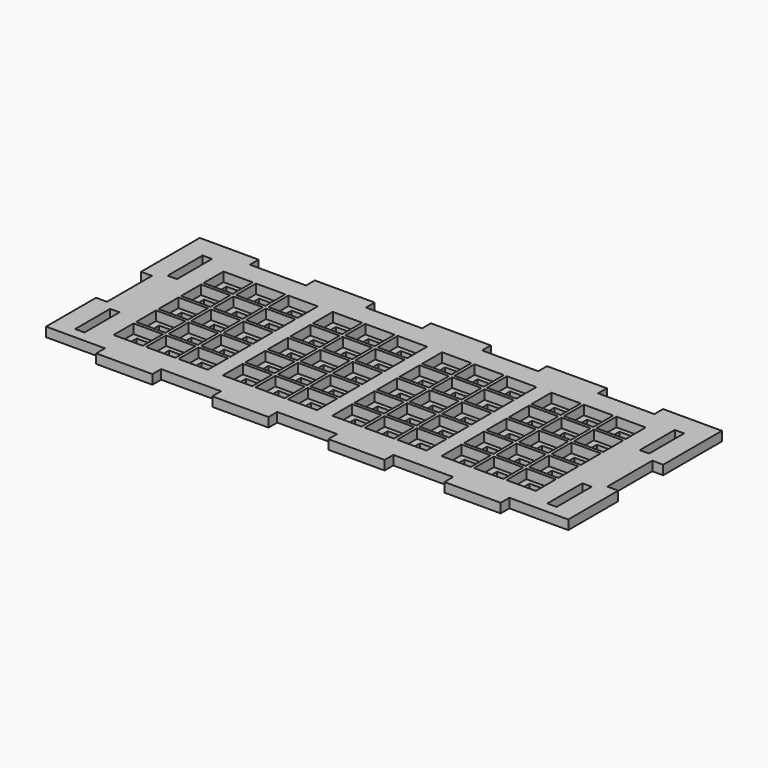
from build123d import *

# Parameters (mm, degrees)
F0_W     = 139.2
F0_H     = 49
F0_W_2   = 5.2
F0_H_2   = 5.2
F1_DEPTH = 3
F2_W     = 167.2
F2_H     = 65
F2_W_2   = 9.4
F2_H_2   = 8
F3_DEPTH = 3
F4_W     = 3
F4_H     = 14
F4_W_2   = 3.5
F4_H_2   = 18
F4_W_3   = 18
F4_H_3   = 3.5
F4_W_4   = 18.846658
F4_W_5   = 19.168895
F4_W_6   = 19.168894
F5_DEPTH = 25


with BuildPart() as f1:
    # F0 (on Top) → F1 (new body)
    with BuildSketch(Plane.XY):
        with Locations((69.6, 24.5)):
            Rectangle(F0_W, F0_H)
        with Locations((6.7, 6.5)):
            Rectangle(F0_W_2, F0_H_2, mode=Mode.SUBTRACT)
        with Locations((17.1, 6.5)):
            Rectangle(F0_W_2, F0_H_2, mode=Mode.SUBTRACT)
        with Locations((27.5, 6.5)):
            Rectangle(F0_W_2, F0_H_2, mode=Mode.SUBTRACT)
        with Locations((41.7, 6.5)):
            Rectangle(F0_W_2, F0_H_2, mode=Mode.SUBTRACT)
        with Locations((52.1, 6.5)):
            Rectangle(F0_W_2, F0_H_2, mode=Mode.SUBTRACT)
        with Locations((62.5, 6.5)):
            Rectangle(F0_W_2, F0_H_2, mode=Mode.SUBTRACT)
        with Locations((6.7, 15.5)):
            Rectangle(F0_W_2, F0_H_2, mode=Mode.SUBTRACT)
        with Locations((17.1, 15.5)):
            Rectangle(F0_W_2, F0_H_2, mode=Mode.SUBTRACT)
        with Locations((27.5, 15.5)):
            Rectangle(F0_W_2, F0_H_2, mode=Mode.SUBTRACT)
        with Locations((6.7, 24.5)):
            Rectangle(F0_W_2, F0_H_2, mode=Mode.SUBTRACT)
        with Locations((17.1, 24.5)):
            Rectangle(F0_W_2, F0_H_2, mode=Mode.SUBTRACT)
        with Locations((27.5, 24.5)):
            Rectangle(F0_W_2, F0_H_2, mode=Mode.SUBTRACT)
        with Locations((41.7, 15.5)):
            Rectangle(F0_W_2, F0_H_2, mode=Mode.SUBTRACT)
        with Locations((52.1, 15.5)):
            Rectangle(F0_W_2, F0_H_2, mode=Mode.SUBTRACT)
        with Locations((62.5, 15.5)):
            Rectangle(F0_W_2, F0_H_2, mode=Mode.SUBTRACT)
        with Locations((41.7, 24.5)):
            Rectangle(F0_W_2, F0_H_2, mode=Mode.SUBTRACT)
        with Locations((52.1, 24.5)):
            Rectangle(F0_W_2, F0_H_2, mode=Mode.SUBTRACT)
        with Locations((62.5, 24.5)):
            Rectangle(F0_W_2, F0_H_2, mode=Mode.SUBTRACT)
        with Locations((76.7, 6.5)):
            Rectangle(F0_W_2, F0_H_2, mode=Mode.SUBTRACT)
        with Locations((87.1, 6.5)):
            Rectangle(F0_W_2, F0_H_2, mode=Mode.SUBTRACT)
        with Locations((97.5, 6.5)):
            Rectangle(F0_W_2, F0_H_2, mode=Mode.SUBTRACT)
        with Locations((111.7, 6.5)):
            Rectangle(F0_W_2, F0_H_2, mode=Mode.SUBTRACT)
        with Locations((122.1, 6.5)):
            Rectangle(F0_W_2, F0_H_2, mode=Mode.SUBTRACT)
        with Locations((132.5, 6.5)):
            Rectangle(F0_W_2, F0_H_2, mode=Mode.SUBTRACT)
        with Locations((76.7, 15.5)):
            Rectangle(F0_W_2, F0_H_2, mode=Mode.SUBTRACT)
        with Locations((87.1, 15.5)):
            Rectangle(F0_W_2, F0_H_2, mode=Mode.SUBTRACT)
        with Locations((97.5, 15.5)):
            Rectangle(F0_W_2, F0_H_2, mode=Mode.SUBTRACT)
        with Locations((76.7, 24.5)):
            Rectangle(F0_W_2, F0_H_2, mode=Mode.SUBTRACT)
        with Locations((87.1, 24.5)):
            Rectangle(F0_W_2, F0_H_2, mode=Mode.SUBTRACT)
        with Locations((97.5, 24.5)):
            Rectangle(F0_W_2, F0_H_2, mode=Mode.SUBTRACT)
        with Locations((111.7, 15.5)):
            Rectangle(F0_W_2, F0_H_2, mode=Mode.SUBTRACT)
        with Locations((122.1, 15.5)):
            Rectangle(F0_W_2, F0_H_2, mode=Mode.SUBTRACT)
        with Locations((132.5, 15.5)):
            Rectangle(F0_W_2, F0_H_2, mode=Mode.SUBTRACT)
        with Locations((111.7, 24.5)):
            Rectangle(F0_W_2, F0_H_2, mode=Mode.SUBTRACT)
        with Locations((122.1, 24.5)):
            Rectangle(F0_W_2, F0_H_2, mode=Mode.SUBTRACT)
        with Locations((132.5, 24.5)):
            Rectangle(F0_W_2, F0_H_2, mode=Mode.SUBTRACT)
        with Locations((6.7, 33.5)):
            Rectangle(F0_W_2, F0_H_2, mode=Mode.SUBTRACT)
        with Locations((17.1, 33.5)):
            Rectangle(F0_W_2, F0_H_2, mode=Mode.SUBTRACT)
        with Locations((27.5, 33.5)):
            Rectangle(F0_W_2, F0_H_2, mode=Mode.SUBTRACT)
        with Locations((41.7, 33.5)):
            Rectangle(F0_W_2, F0_H_2, mode=Mode.SUBTRACT)
        with Locations((52.1, 33.5)):
            Rectangle(F0_W_2, F0_H_2, mode=Mode.SUBTRACT)
        with Locations((62.5, 33.5)):
            Rectangle(F0_W_2, F0_H_2, mode=Mode.SUBTRACT)
        with Locations((6.7, 42.5)):
            Rectangle(F0_W_2, F0_H_2, mode=Mode.SUBTRACT)
        with Locations((17.1, 42.5)):
            Rectangle(F0_W_2, F0_H_2, mode=Mode.SUBTRACT)
        with Locations((27.5, 42.5)):
            Rectangle(F0_W_2, F0_H_2, mode=Mode.SUBTRACT)
        with Locations((41.7, 42.5)):
            Rectangle(F0_W_2, F0_H_2, mode=Mode.SUBTRACT)
        with Locations((52.1, 42.5)):
            Rectangle(F0_W_2, F0_H_2, mode=Mode.SUBTRACT)
        with Locations((62.5, 42.5)):
            Rectangle(F0_W_2, F0_H_2, mode=Mode.SUBTRACT)
        with Locations((76.7, 33.5)):
            Rectangle(F0_W_2, F0_H_2, mode=Mode.SUBTRACT)
        with Locations((87.1, 33.5)):
            Rectangle(F0_W_2, F0_H_2, mode=Mode.SUBTRACT)
        with Locations((97.5, 33.5)):
            Rectangle(F0_W_2, F0_H_2, mode=Mode.SUBTRACT)
        with Locations((111.7, 33.5)):
            Rectangle(F0_W_2, F0_H_2, mode=Mode.SUBTRACT)
        with Locations((122.1, 33.5)):
            Rectangle(F0_W_2, F0_H_2, mode=Mode.SUBTRACT)
        with Locations((132.5, 33.5)):
            Rectangle(F0_W_2, F0_H_2, mode=Mode.SUBTRACT)
        with Locations((76.7, 42.5)):
            Rectangle(F0_W_2, F0_H_2, mode=Mode.SUBTRACT)
        with Locations((87.1, 42.5)):
            Rectangle(F0_W_2, F0_H_2, mode=Mode.SUBTRACT)
        with Locations((97.5, 42.5)):
            Rectangle(F0_W_2, F0_H_2, mode=Mode.SUBTRACT)
        with Locations((111.7, 42.5)):
            Rectangle(F0_W_2, F0_H_2, mode=Mode.SUBTRACT)
        with Locations((122.1, 42.5)):
            Rectangle(F0_W_2, F0_H_2, mode=Mode.SUBTRACT)
        with Locations((132.5, 42.5)):
            Rectangle(F0_W_2, F0_H_2, mode=Mode.SUBTRACT)
    extrude(amount=F1_DEPTH)


with BuildPart() as f3:
    # F2 (on face) → F3 (new body)
    with BuildSketch(Plane.XY.offset(3)):
        with Locations((69.6, 24.5)):
            Rectangle(F2_W, F2_H)
        with Locations((6.7, 6.5)):
            Rectangle(F2_W_2, F2_H_2, mode=Mode.SUBTRACT)
        with Locations((17.1, 6.5)):
            Rectangle(F2_W_2, F2_H_2, mode=Mode.SUBTRACT)
        with Locations((27.5, 6.5)):
            Rectangle(F2_W_2, F2_H_2, mode=Mode.SUBTRACT)
        with Locations((41.7, 6.5)):
            Rectangle(F2_W_2, F2_H_2, mode=Mode.SUBTRACT)
        with Locations((52.1, 6.5)):
            Rectangle(F2_W_2, F2_H_2, mode=Mode.SUBTRACT)
        with Locations((62.5, 6.5)):
            Rectangle(F2_W_2, F2_H_2, mode=Mode.SUBTRACT)
        with Locations((6.7, 15.5)):
            Rectangle(F2_W_2, F2_H_2, mode=Mode.SUBTRACT)
        with Locations((17.1, 15.5)):
            Rectangle(F2_W_2, F2_H_2, mode=Mode.SUBTRACT)
        with Locations((27.5, 15.5)):
            Rectangle(F2_W_2, F2_H_2, mode=Mode.SUBTRACT)
        with Locations((41.7, 15.5)):
            Rectangle(F2_W_2, F2_H_2, mode=Mode.SUBTRACT)
        with Locations((52.1, 15.5)):
            Rectangle(F2_W_2, F2_H_2, mode=Mode.SUBTRACT)
        with Locations((62.5, 15.5)):
            Rectangle(F2_W_2, F2_H_2, mode=Mode.SUBTRACT)
        with Locations((76.7, 6.5)):
            Rectangle(F2_W_2, F2_H_2, mode=Mode.SUBTRACT)
        with Locations((87.1, 6.5)):
            Rectangle(F2_W_2, F2_H_2, mode=Mode.SUBTRACT)
        with Locations((97.5, 6.5)):
            Rectangle(F2_W_2, F2_H_2, mode=Mode.SUBTRACT)
        with Locations((111.7, 6.5)):
            Rectangle(F2_W_2, F2_H_2, mode=Mode.SUBTRACT)
        with Locations((122.1, 6.5)):
            Rectangle(F2_W_2, F2_H_2, mode=Mode.SUBTRACT)
        with Locations((132.5, 6.5)):
            Rectangle(F2_W_2, F2_H_2, mode=Mode.SUBTRACT)
        with Locations((76.7, 15.5)):
            Rectangle(F2_W_2, F2_H_2, mode=Mode.SUBTRACT)
        with Locations((87.1, 15.5)):
            Rectangle(F2_W_2, F2_H_2, mode=Mode.SUBTRACT)
        with Locations((97.5, 15.5)):
            Rectangle(F2_W_2, F2_H_2, mode=Mode.SUBTRACT)
        with Locations((111.7, 15.5)):
            Rectangle(F2_W_2, F2_H_2, mode=Mode.SUBTRACT)
        with Locations((122.1, 15.5)):
            Rectangle(F2_W_2, F2_H_2, mode=Mode.SUBTRACT)
        with Locations((132.5, 15.5)):
            Rectangle(F2_W_2, F2_H_2, mode=Mode.SUBTRACT)
        with Locations((6.7, 24.5)):
            Rectangle(F2_W_2, F2_H_2, mode=Mode.SUBTRACT)
        with Locations((17.1, 24.5)):
            Rectangle(F2_W_2, F2_H_2, mode=Mode.SUBTRACT)
        with Locations((27.5, 24.5)):
            Rectangle(F2_W_2, F2_H_2, mode=Mode.SUBTRACT)
        with Locations((6.7, 33.5)):
            Rectangle(F2_W_2, F2_H_2, mode=Mode.SUBTRACT)
        with Locations((17.1, 33.5)):
            Rectangle(F2_W_2, F2_H_2, mode=Mode.SUBTRACT)
        with Locations((27.5, 33.5)):
            Rectangle(F2_W_2, F2_H_2, mode=Mode.SUBTRACT)
        with Locations((41.7, 24.5)):
            Rectangle(F2_W_2, F2_H_2, mode=Mode.SUBTRACT)
        with Locations((52.1, 24.5)):
            Rectangle(F2_W_2, F2_H_2, mode=Mode.SUBTRACT)
        with Locations((62.5, 24.5)):
            Rectangle(F2_W_2, F2_H_2, mode=Mode.SUBTRACT)
        with Locations((41.7, 33.5)):
            Rectangle(F2_W_2, F2_H_2, mode=Mode.SUBTRACT)
        with Locations((52.1, 33.5)):
            Rectangle(F2_W_2, F2_H_2, mode=Mode.SUBTRACT)
        with Locations((62.5, 33.5)):
            Rectangle(F2_W_2, F2_H_2, mode=Mode.SUBTRACT)
        with Locations((6.7, 42.5)):
            Rectangle(F2_W_2, F2_H_2, mode=Mode.SUBTRACT)
        with Locations((17.1, 42.5)):
            Rectangle(F2_W_2, F2_H_2, mode=Mode.SUBTRACT)
        with Locations((27.5, 42.5)):
            Rectangle(F2_W_2, F2_H_2, mode=Mode.SUBTRACT)
        with Locations((41.7, 42.5)):
            Rectangle(F2_W_2, F2_H_2, mode=Mode.SUBTRACT)
        with Locations((52.1, 42.5)):
            Rectangle(F2_W_2, F2_H_2, mode=Mode.SUBTRACT)
        with Locations((62.5, 42.5)):
            Rectangle(F2_W_2, F2_H_2, mode=Mode.SUBTRACT)
        with Locations((76.7, 24.5)):
            Rectangle(F2_W_2, F2_H_2, mode=Mode.SUBTRACT)
        with Locations((87.1, 24.5)):
            Rectangle(F2_W_2, F2_H_2, mode=Mode.SUBTRACT)
        with Locations((97.5, 24.5)):
            Rectangle(F2_W_2, F2_H_2, mode=Mode.SUBTRACT)
        with Locations((76.7, 33.5)):
            Rectangle(F2_W_2, F2_H_2, mode=Mode.SUBTRACT)
        with Locations((87.1, 33.5)):
            Rectangle(F2_W_2, F2_H_2, mode=Mode.SUBTRACT)
        with Locations((97.5, 33.5)):
            Rectangle(F2_W_2, F2_H_2, mode=Mode.SUBTRACT)
        with Locations((111.7, 24.5)):
            Rectangle(F2_W_2, F2_H_2, mode=Mode.SUBTRACT)
        with Locations((122.1, 24.5)):
            Rectangle(F2_W_2, F2_H_2, mode=Mode.SUBTRACT)
        with Locations((132.5, 24.5)):
            Rectangle(F2_W_2, F2_H_2, mode=Mode.SUBTRACT)
        with Locations((111.7, 33.5)):
            Rectangle(F2_W_2, F2_H_2, mode=Mode.SUBTRACT)
        with Locations((122.1, 33.5)):
            Rectangle(F2_W_2, F2_H_2, mode=Mode.SUBTRACT)
        with Locations((132.5, 33.5)):
            Rectangle(F2_W_2, F2_H_2, mode=Mode.SUBTRACT)
        with Locations((76.7, 42.5)):
            Rectangle(F2_W_2, F2_H_2, mode=Mode.SUBTRACT)
        with Locations((87.1, 42.5)):
            Rectangle(F2_W_2, F2_H_2, mode=Mode.SUBTRACT)
        with Locations((97.5, 42.5)):
            Rectangle(F2_W_2, F2_H_2, mode=Mode.SUBTRACT)
        with Locations((111.7, 42.5)):
            Rectangle(F2_W_2, F2_H_2, mode=Mode.SUBTRACT)
        with Locations((122.1, 42.5)):
            Rectangle(F2_W_2, F2_H_2, mode=Mode.SUBTRACT)
        with Locations((132.5, 42.5)):
            Rectangle(F2_W_2, F2_H_2, mode=Mode.SUBTRACT)
    extrude(amount=F3_DEPTH)

    # F4 (on face) → F5 (cut)
    with BuildSketch(Plane.XY.offset(6)):
        with Locations((-6, 43)):
            Rectangle(F4_W, F4_H)
        with Locations((-6, 6)):
            Rectangle(F4_W, F4_H)
        with Locations((145.2, 43)):
            Rectangle(F4_W, F4_H)
        with Locations((-12.25, 24.5)):
            Rectangle(F4_W_2, F4_H_2)
        with Locations((151.45, 24.5)):
            Rectangle(F4_W_2, F4_H_2)
        with Locations((13.846658, 55.25)):
            Rectangle(F4_W_3, F4_H_3)
        with Locations((51.015553, 55.25)):
            Rectangle(F4_W_3, F4_H_3)
        with Locations((88.184447, 55.25)):
            Rectangle(F4_W_3, F4_H_3)
        with Locations((125.353342, 55.25)):
            Rectangle(F4_W_3, F4_H_3)
        with Locations((-4.576671, -6.25)):
            Rectangle(F4_W_4, F4_H_3)
        with Locations((32.431106, -6.25)):
            Rectangle(F4_W_5, F4_H_3)
        with Locations((69.6, -6.25)):
            Rectangle(F4_W_6, F4_H_3)
        with Locations((106.768894, -6.25)):
            Rectangle(F4_W_5, F4_H_3)
        with Locations((143.776671, -6.25)):
            Rectangle(F4_W_4, F4_H_3)
        with Locations((145.2, 6)):
            Rectangle(F4_W, F4_H)
    extrude(amount=-F5_DEPTH, mode=Mode.SUBTRACT)


solid = Compound([f1.part, f3.part])
